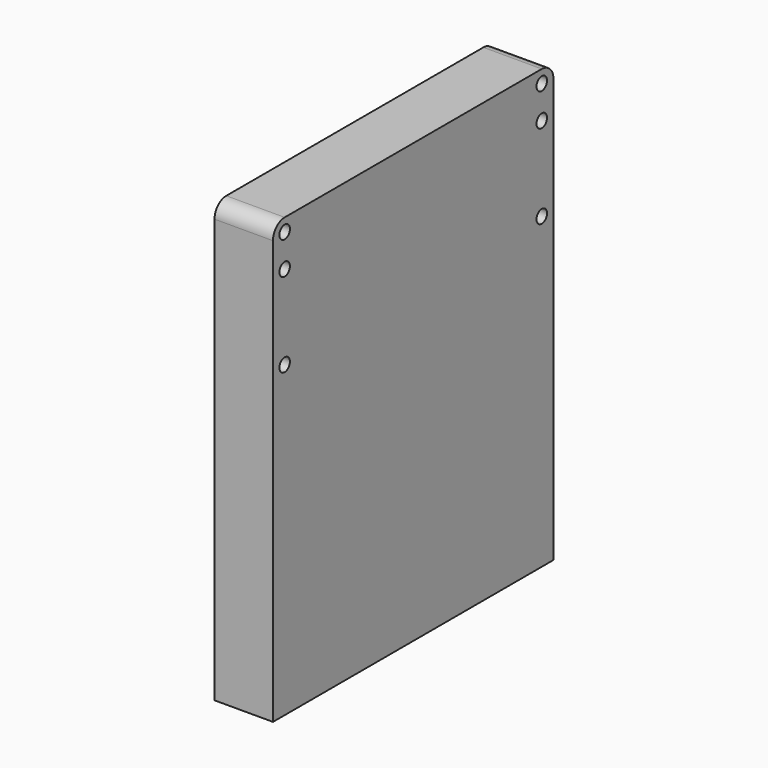
from build123d import *

# Parameters (mm, degrees)
F0_R     = 2.25
F1_DEPTH = 20


with BuildPart() as f1:
    # F0 (on Right) → F1 (new body)
    with BuildSketch(Plane.YZ):
        with BuildLine():
            Line((115, 150), (5, 150))
            ThreePointArc((5, 150), (1.464466, 148.535534), (0, 145))
            Line((0, 145), (0, 0))
            Line((0, 0), (120, 0))
            Line((120, 0), (120, 145))
            ThreePointArc((120, 145), (118.535534, 148.535534), (115, 150))
        make_face()
        with Locations((5, 105.6)):
            Circle(F0_R, mode=Mode.SUBTRACT)
        with Locations((5, 134.4)):
            Circle(F0_R, mode=Mode.SUBTRACT)
        with Locations((5, 145.6)):
            Circle(F0_R, mode=Mode.SUBTRACT)
        with Locations((115, 105.6)):
            Circle(F0_R, mode=Mode.SUBTRACT)
        with Locations((115, 134.4)):
            Circle(F0_R, mode=Mode.SUBTRACT)
        with Locations((115, 145.6)):
            Circle(F0_R, mode=Mode.SUBTRACT)
    extrude(amount=F1_DEPTH)


solid = f1.part
